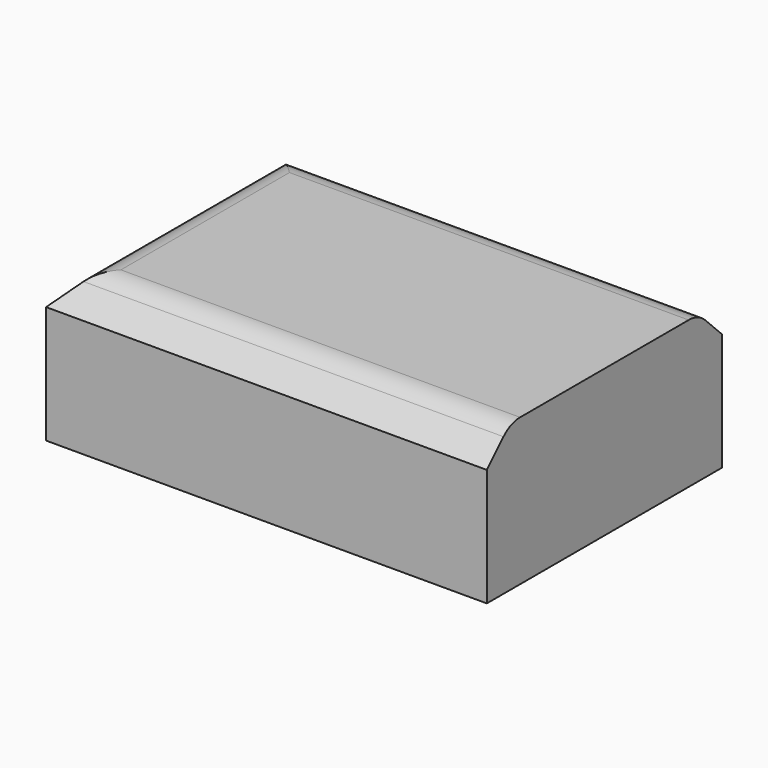
from build123d import *

# Parameters (mm, degrees)
F0_W     = 76.2
F0_H     = 50.8
F1_DEPTH = 25.4
F2_SIZE  = 5.08
F3_R     = 5.08


with BuildPart() as f1:
    # F0 (on Top) → F1 (new body)
    with BuildSketch(Plane.XY):
        with Locations((38.1, -25.4)):
            Rectangle(F0_W, F0_H)
    extrude(amount=F1_DEPTH)

    # F2
    f2_edges = [f1.edges().sort_by_distance(p)[0] for p in [
        (38.1, -50.8, 25.4),
        (0, -25.4, 25.4),
        (38.1, 0, 25.4),
    ]]
    chamfer(f2_edges, length=F2_SIZE)

    # F3
    f3_edges = [f1.edges().sort_by_distance(p)[0] for p in [
        (40.64, -5.08, 25.4),
        (5.08, -25.4, 25.4),
        (40.64, -45.72, 25.4),
    ]]
    fillet(f3_edges, radius=F3_R)


solid = f1.part
